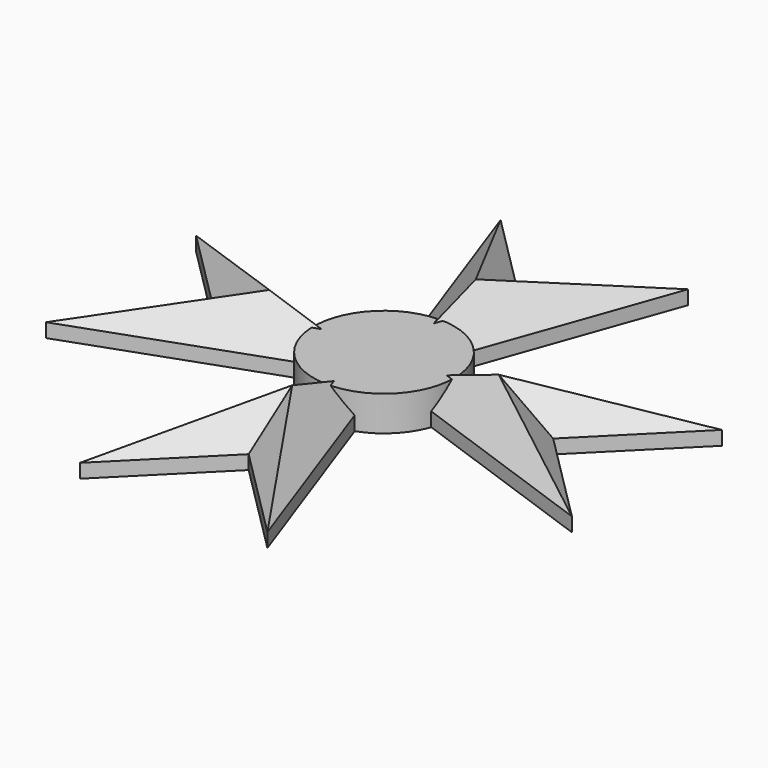
from build123d import *

# Parameters (mm, degrees)
F1_DEPTH  = 15
F2_SIZE   = 11
F2_2_SIZE = 11
F2_3_SIZE = 11
F2_4_SIZE = 11
F3_R      = 20.0713363814
F4_DEPTH  = 10


with BuildPart() as f1:
    # F0 (on Top) → F1 (new body)
    with BuildSketch(Plane.XY):
        Polygon((75.1526915418, 26.7958933678), (0, 0), (75.1526911157, -26.7958945627), (48.3567973635, -3.844e-07), align=None)
    extrude(amount=F1_DEPTH)

    # F2#2
    f2_2_edges = [f1.edges().sort_by_distance(p)[0] for p in [
        (61.754744, 13.397946, 15),
        (37.576346, 13.397947, 15),
        (37.576346, -13.397947, 15),
        (61.754744, -13.397947, 15),
    ]]
    chamfer(f2_2_edges, length=F2_2_SIZE)


with BuildPart() as f1b:
    # F0 (on Top) → F1, piece 2 (new body)
    with BuildSketch(Plane.XY):
        Polygon((-26.7958936665, 75.1526914352), (0, 0), (26.795894264, 75.1526912222), (1.922e-07, 48.3567973635), align=None)
    extrude(amount=F1_DEPTH)

    # F2#3
    f2_3_edges = [f1b.edges().sort_by_distance(p)[0] for p in [
        (-13.397947, 61.754744, 15),
        (-13.397947, 37.576346, 15),
        (13.397947, 37.576346, 15),
        (13.397947, 61.754744, 15),
    ]]
    chamfer(f2_3_edges, length=F2_3_SIZE)


with BuildPart() as f1c:
    # F0 (on Top) → F1, piece 3 (new body)
    with BuildSketch(Plane.XY):
        Polygon((-75.1526913287, -26.7958939652), (0, 0), (-75.1526913287, 26.7958939652), (-48.3567973635, 0), align=None)
    extrude(amount=F1_DEPTH)

    # F2#4
    f2_4_edges = [f1c.edges().sort_by_distance(p)[0] for p in [
        (-61.754744, -13.397947, 15),
        (-37.576346, -13.397947, 15),
        (-37.576346, 13.397947, 15),
        (-61.754744, 13.397947, 15),
    ]]
    chamfer(f2_4_edges, length=F2_4_SIZE)


with BuildPart() as f1d:
    # F0 (on Top) → F1, piece 4 (new body)
    with BuildSketch(Plane.XY):
        Polygon((26.795893069, -75.1526916483), (0, 0), (-26.7958948614, -75.1526910092), (-5.766e-07, -48.3567973635), align=None)
    extrude(amount=F1_DEPTH)

    # F2
    f2_edges = [f1d.edges().sort_by_distance(p)[0] for p in [
        (13.397946, -61.754745, 15),
        (13.397947, -37.576346, 15),
        (-13.397947, -37.576346, 15),
        (-13.397948, -61.754744, 15),
    ]]
    chamfer(f2_edges, length=F2_SIZE)


with BuildPart() as f4:
    # F3 (on Top) → F4 (new body)
    with BuildSketch(Plane.XY):
        Circle(F3_R)
    extrude(amount=F4_DEPTH)


solid = Compound([f1.part, f1b.part, f1c.part, f1d.part, f4.part])
